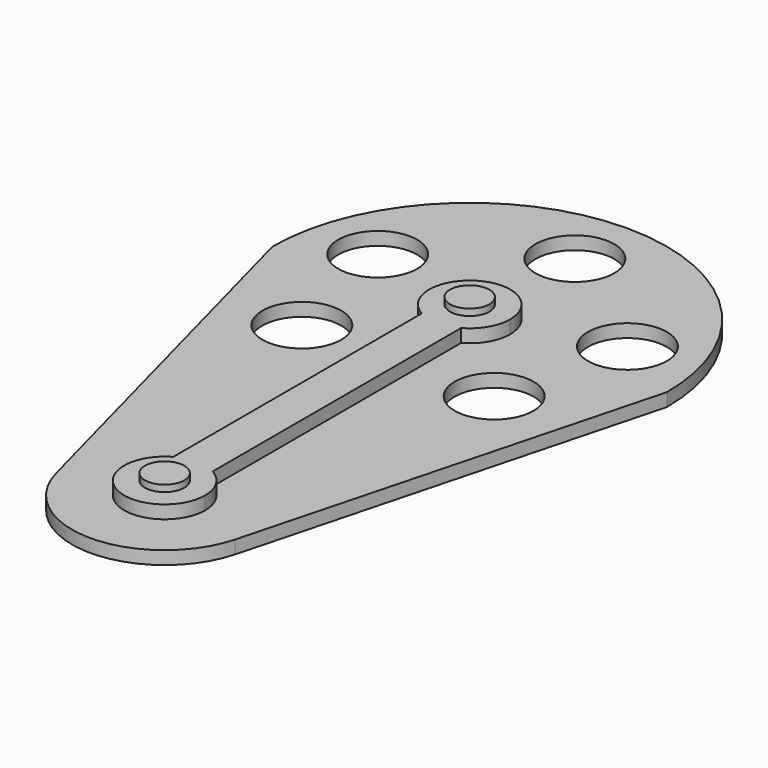
from build123d import *

# Parameters (mm, degrees)
F0_R     = 7.62
F1_DEPTH = 2.54
F0_R_2   = 3.81
F2_DEPTH = 5.08
F3_DEPTH = 6.35


with BuildPart() as f1:
    # F0 (on Top) → F1 (new body)
    with BuildSketch(Plane.XY):
        with BuildLine():
            ThreePointArc((38.1, 0), (0, 38.1), (-38.1, 0))
            Line((-38.1, 0), (-17.309019, -78.278743))
            ThreePointArc((-17.309019, -78.278743), (0, -91.590577), (17.309019, -78.278743))
            Line((17.309019, -78.278743), (38.1, 0))
        make_face()
        with BuildLine():
            ThreePointArc((-3.81, -6.832742), (-3.962074, 6.745697), (7.8232, 0))
            ThreePointArc((7.8232, 0), (6.745697, -3.962074), (3.81, -6.832742))
            Line((3.81, -6.832742), (3.81, -66.848693))
            ThreePointArc((3.81, -66.848693), (6.745697, -69.71936), (7.8232, -73.681435))
            ThreePointArc((7.8232, -73.681435), (-3.962074, -80.427132), (-3.81, -66.848693))
            Line((-3.81, -66.848693), (-3.81, -6.832742))
        make_face(mode=Mode.SUBTRACT)
        with Locations((-18.580349, -17.318506)):
            Circle(F0_R, mode=Mode.SUBTRACT)
        with Locations((-24.127055, 7.940101)):
            Circle(F0_R, mode=Mode.SUBTRACT)
        with Locations((18.580349, -17.318506)):
            Circle(F0_R, mode=Mode.SUBTRACT)
        with Locations((0, 25.4)):
            Circle(F0_R, mode=Mode.SUBTRACT)
        with Locations((24.127055, 7.940101)):
            Circle(F0_R, mode=Mode.SUBTRACT)
    extrude(amount=F1_DEPTH)

    # F0 (on Top) → F2 (join)
    with BuildSketch(Plane.XY):
        with BuildLine():
            ThreePointArc((3.81, -6.832742), (0, -7.8232), (-3.81, -6.832742))
            Line((-3.81, -6.832742), (-3.81, -66.848693))
            ThreePointArc((-3.81, -66.848693), (0, -65.858235), (3.81, -66.848693))
            Line((3.81, -66.848693), (3.81, -6.832742))
        make_face()
        with BuildLine():
            ThreePointArc((3.81, -66.848693), (0, -65.858235), (-3.81, -66.848693))
            ThreePointArc((-3.81, -66.848693), (-3.962074, -80.427132), (7.8232, -73.681435))
            ThreePointArc((7.8232, -73.681435), (6.745697, -69.71936), (3.81, -66.848693))
        make_face()
        with Locations((0, -73.681435)):
            Circle(F0_R_2, mode=Mode.SUBTRACT)
        with BuildLine():
            ThreePointArc((3.81, -6.832742), (6.745697, -3.962074), (7.8232, 0))
            ThreePointArc((7.8232, 0), (-3.962074, 6.745697), (-3.81, -6.832742))
            ThreePointArc((-3.81, -6.832742), (0, -7.8232), (3.81, -6.832742))
        make_face()
        Circle(F0_R_2, mode=Mode.SUBTRACT)
    extrude(amount=F2_DEPTH)

    # F0 (on Top) → F3 (join)
    with BuildSketch(Plane.XY):
        with Locations((0, -73.681435)):
            Circle(F0_R_2)
        Circle(F0_R_2)
    extrude(amount=F3_DEPTH)


solid = f1.part
